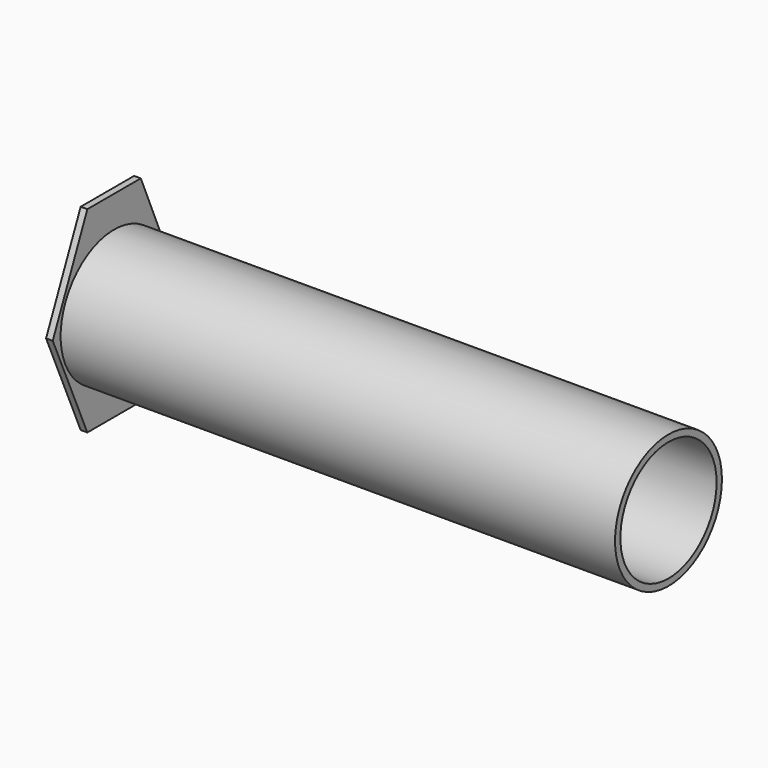
from build123d import *

# Parameters (mm, degrees)
F0_R     = 15.875
F1_DEPTH = 1.5875
F0_R_2   = 14.2875
F2_DEPTH = 133.35


with BuildPart() as f1:
    # F0 (on Right) → F1 (new body)
    with BuildSketch(Plane.YZ):
        Polygon((-32.20954, 7.170476), (-24.27204, 7.170476), (-16.33454, 7.170476), (-6.366437, 30.532773), (-16.33454, 53.89507), (-24.27204, 53.89507), (-32.20954, 53.89507), (-42.487427, 30.532773), align=None)
        with Locations((-24.27204, 30.532773)):
            Circle(F0_R, mode=Mode.SUBTRACT)
    extrude(amount=F1_DEPTH)

    # F0 (on Right) → F2 (join)
    with BuildSketch(Plane.YZ):
        with Locations((-24.27204, 30.532773)):
            Circle(F0_R)
        with Locations((-24.27204, 30.532773)):
            Circle(F0_R_2, mode=Mode.SUBTRACT)
    extrude(amount=F2_DEPTH)


solid = f1.part
